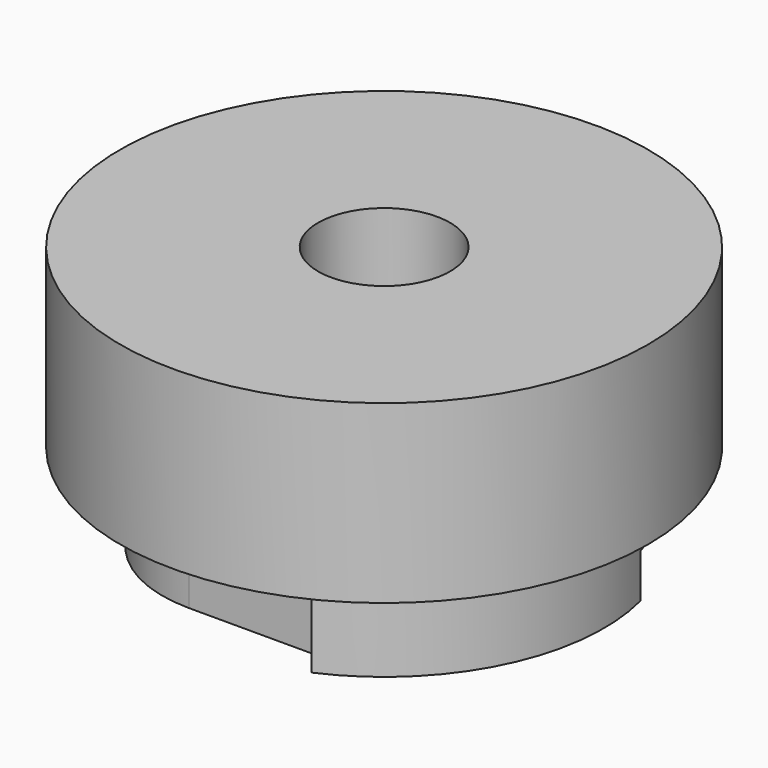
from build123d import *

# Parameters (mm, degrees)
F3_DEPTH = 12.7
F5_DEPTH = 6.35
F7_D     = 19.05
F8_R     = 1.5875
F9_DEPTH = 3.175


with BuildPart() as f1:
    # F0 (on Front) → F1 (revolve)
    with BuildSketch(Plane.XZ):
        Polygon((0, 0), (31.75, 0), (31.75, 12.7), (38.1, 12.7), (38.1, 38.1), (0, 38.1), align=None)
    revolve(axis=Axis((0, 0, 19.05), (0, 0, -1)))

    # F2 (on face) → F3 (cut)
    with BuildSketch(Plane(origin=(0, 0, 0), x_dir=(1, 0, 0), z_dir=(0, 0, -1))):
        with BuildLine():
            Line((11.4793549074, 25.4), (12.7619952542, 29.0722200241))
            Line((12.7619952542, 29.0722200241), (20.2202573419, 33.7093167499))
            Line((20.2202573419, 33.7093167499), (-32.5390584767, 29.2297520235))
            Line((-32.5390584767, 29.2297520235), (-48.7152673304, -19.05))
            Line((-48.7152673304, -19.05), (-26.924, -19.05))
            Line((-26.924, -19.05), (-26.924, -5.08))
            ThreePointArc((-26.924, -5.08), (-21.844, 0), (-26.924, 5.08))
            Line((-26.924, 5.08), (-26.924, 6.35))
            ThreePointArc((-26.924, 6.35), (-21.3443841816, 19.8203841816), (-7.874, 25.4))
            Line((-7.874, 25.4), (11.4793549074, 25.4))
        make_face()
    extrude(amount=-F3_DEPTH, mode=Mode.SUBTRACT)

    # F4 (on face) → F5 (cut)
    with BuildSketch(Plane(origin=(0, 0, 0), x_dir=(1, 0, 0), z_dir=(0, 0, -1))):
        with BuildLine():
            ThreePointArc((23.868192568, -8.6873116405), (10.7345038482, -23.0202177907), (-8.6873116405, -23.868192568))
            ThreePointArc((-8.6873116405, -23.868192568), (-11.1150385766, -23.9741894151), (-12.7567496665, -25.7658026839))
            Line((-12.7567496665, -25.7658026839), (-28.8802481167, -70.0647505985))
            Line((-28.8802481167, -70.0647505985), (61.9316732098, -19.1625211791))
            Line((61.9316732098, -19.1625211791), (27.937630594, -6.7897015245))
            ThreePointArc((27.937630594, -6.7897015245), (25.5099036579, -6.8956983717), (23.868192568, -8.6873116405))
        make_face()
    extrude(amount=-F5_DEPTH, mode=Mode.SUBTRACT)

    # F7 (through all)
    with Locations(Plane(origin=(0, 0, 0), x_dir=(1, 0, 0), z_dir=(0, 0, -1))):
        with Locations((0, 0)):
            Hole(F7_D / 2)

    # F8 (on face) → F9 (cut)
    with BuildSketch(Plane(origin=(0, 0, 12.7), x_dir=(1, 0, 0), z_dir=(0, 0, -1))):
        with Locations((-26.924, 0)):
            Circle(F8_R)
    extrude(amount=-F9_DEPTH, mode=Mode.SUBTRACT)


solid = f1.part
